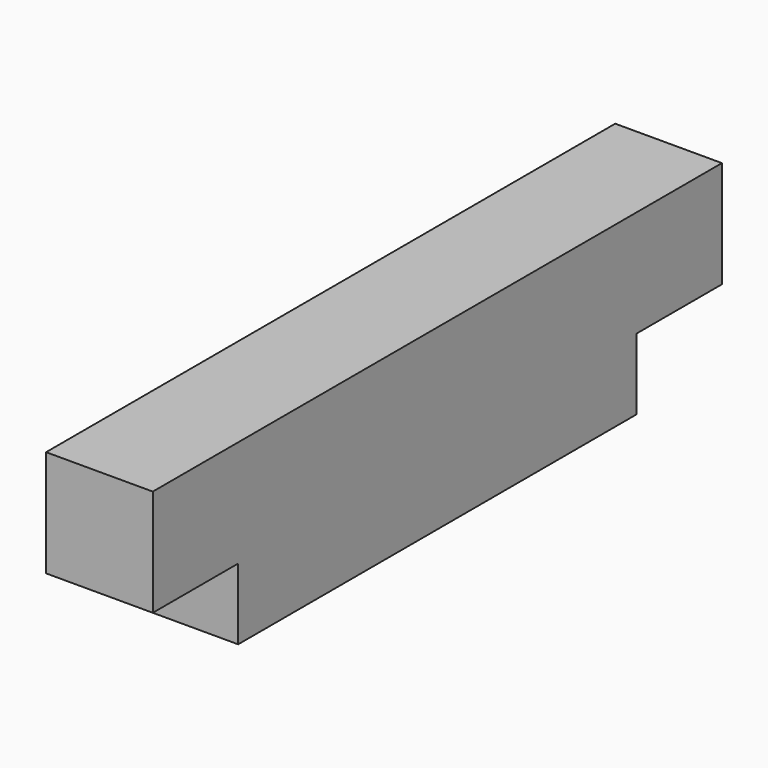
from build123d import *

# Parameters (mm, degrees)
F0_W     = 15
F0_H     = 15
F1_DEPTH = 50
F0_H_2   = 10
F2_DEPTH = 35


with BuildPart() as f1:
    # F0 (on Front) → F1 (new body, symmetric)
    with BuildSketch(Plane.XZ):
        with Locations((-0.108219, -2.080006)):
            Rectangle(F0_W, F0_H)
    extrude(amount=F1_DEPTH, both=True)

    # F0 (on Front) → F2 (join, symmetric)
    with BuildSketch(Plane.XZ):
        with Locations((-0.108219, -14.580006)):
            Rectangle(F0_W, F0_H_2)
    extrude(amount=F2_DEPTH, both=True)


solid = f1.part
